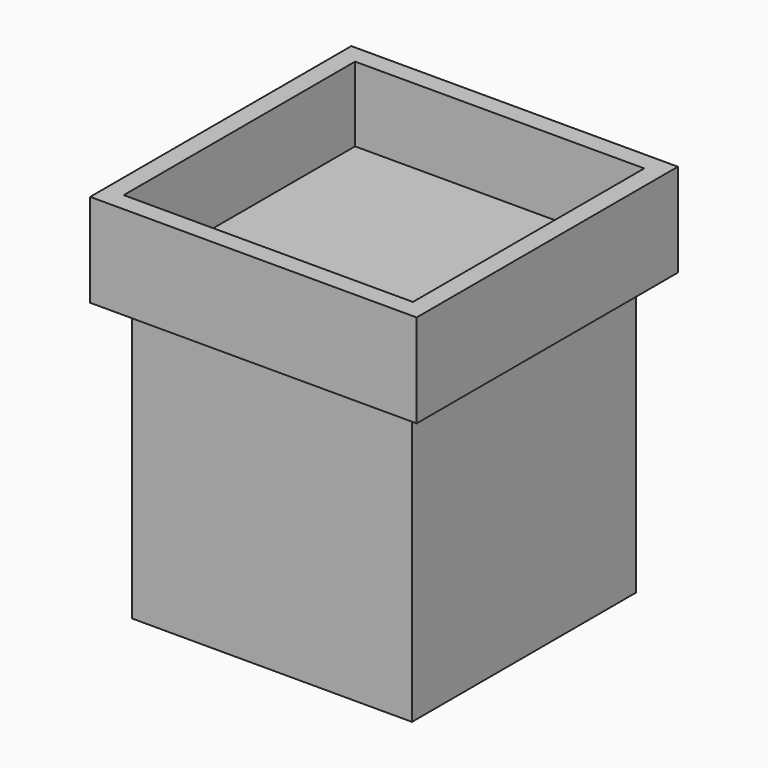
from build123d import *

# Parameters (mm, degrees)
F1_W     = 38.1
F1_H     = 38.1
F2_DEPTH = 38.1
F3_W     = 44.45
F3_H     = 44.45
F4_DEPTH = 12.7
F5_T     = -2.54
F6_T     = -2.54


with BuildPart() as f2:
    # F1 (on face) → F2 (new body)
    with BuildSketch(Plane.XY):
        with Locations((-19.05, 19.05)):
            Rectangle(F1_W, F1_H)
    extrude(amount=F2_DEPTH)

    # F6
    f6_openings = [f2.faces().sort_by_distance(p)[0] for p in [
        (-19.05, 19.05, 38.1),
    ]]
    offset(amount=F6_T, openings=f6_openings)


with BuildPart() as f4:
    # F3 (on face) → F4 (new body)
    with BuildSketch(Plane.XY.offset(38.1)):
        with Locations((-19.05, 19.05)):
            Rectangle(F3_W, F3_H)
    extrude(amount=F4_DEPTH)

    # F5
    f5_openings = [f4.faces().sort_by_distance(p)[0] for p in [
        (-19.05, 19.05, 50.8),
    ]]
    offset(amount=F5_T, openings=f5_openings)


solid = Compound([f2.part, f4.part])
